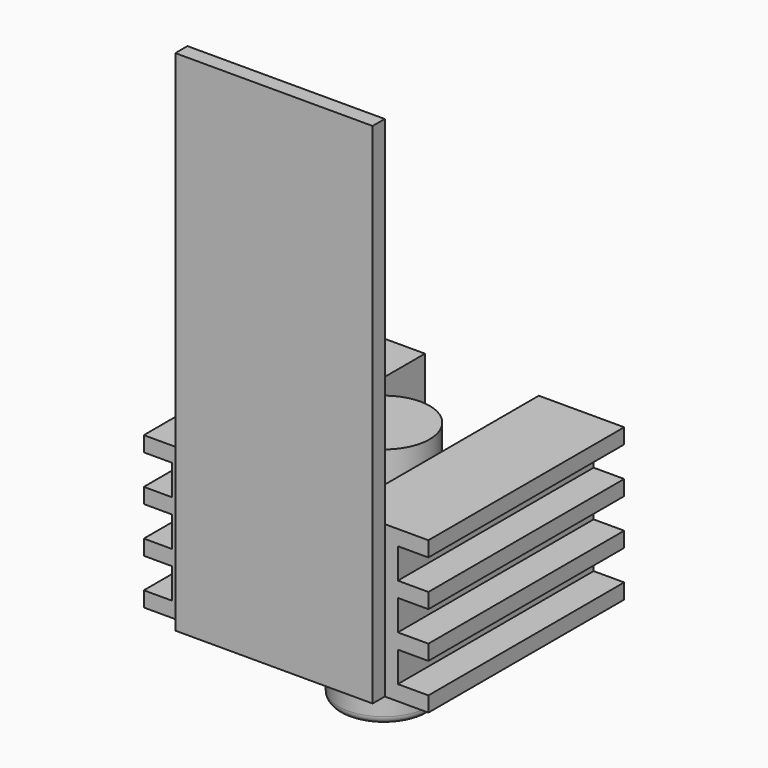
from build123d import *

# Parameters (mm, degrees)
F0_W      = 37.5
F0_H      = 32.25
F1_DEPTH  = 20
F2_R      = 6
F3_DEPTH  = 11
F4_W      = 15
F4_H      = 16
F4_W_2    = 3.7276374176
F4_H_2    = 4
F4_W_3    = 4.0285747498
F5_DEPTH  = 32.251
F6_R      = 1
F7_R      = 6
F8_DEPTH  = 17
F9_W      = 26
F9_H      = 2
F10_DEPTH = 67


with BuildPart() as f1:
    # F0 (on Top) → F1 (new body)
    with BuildSketch(Plane.XY):
        Rectangle(F0_W, F0_H)
    extrude(amount=F1_DEPTH)

    # F2 (on face) → F3 (join)
    with BuildSketch(Plane(origin=(0, 0, 0), x_dir=(1, 0, 0), z_dir=(0, 0, -1))):
        Circle(F2_R)
    extrude(amount=F3_DEPTH)

    # F4 (on face) → F5 (cut, through all)
    with BuildSketch(Plane.XZ.offset(16.125)):
        with Locations((0, 12)):
            Rectangle(F4_W, F4_H)
        with Locations((-16.8861812912, 16)):
            Rectangle(F4_W_2, F4_H_2)
        with Locations((-16.8861812912, 4)):
            Rectangle(F4_W_2, F4_H_2)
        with Locations((16.7357126251, 16)):
            Rectangle(F4_W_3, F4_H_2)
        with Locations((16.7357126251, 10)):
            Rectangle(F4_W_3, F4_H_2)
        with Locations((16.7357126251, 4)):
            Rectangle(F4_W_3, F4_H_2)
        with Locations((-16.8861812912, 10)):
            Rectangle(F4_W_2, F4_H_2)
    extrude(amount=-F5_DEPTH, mode=Mode.SUBTRACT)

    # F6
    f6_edges = [f1.edges().sort_by_distance(p)[0] for p in [
        (-6, 0, -11),
    ]]
    fillet(f6_edges, radius=F6_R)

    # F7 (on face) → F8 (join)
    with BuildSketch(Plane.XY.offset(4)):
        Circle(F7_R)
    extrude(amount=F8_DEPTH)

    # F9 (on Top) → F10 (join)
    with BuildSketch(Plane.XY):
        with Locations((0, -17.125)):
            Rectangle(F9_W, F9_H)
    extrude(amount=F10_DEPTH)


solid = f1.part
